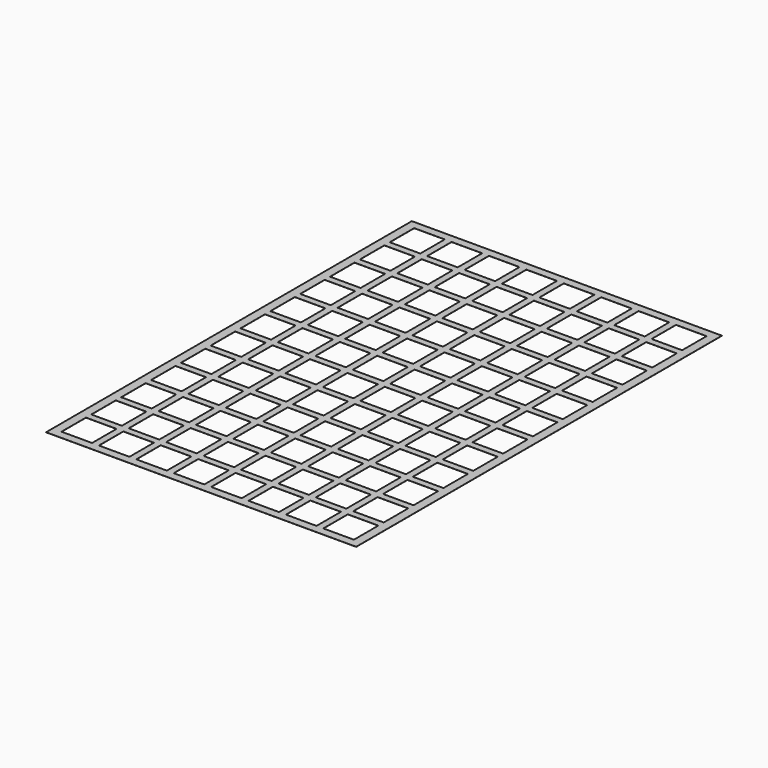
from build123d import *

# Parameters (mm, degrees)
F0_W     = 74.7522
F0_H     = 110.2106
F0_W_2   = 7.366
F0_H_2   = 7.366
F1_DEPTH = 0.0254


with BuildPart() as f1:
    # F0 (on Top) → F1 (new body)
    with BuildSketch(Plane.XY):
        Rectangle(F0_W, F0_H)
        with Locations((-31.5595, -49.4411)):
            Rectangle(F0_W_2, F0_H_2, mode=Mode.SUBTRACT)
        with Locations((-22.5425, -49.4411)):
            Rectangle(F0_W_2, F0_H_2, mode=Mode.SUBTRACT)
        with Locations((-31.5595, -40.4495)):
            Rectangle(F0_W_2, F0_H_2, mode=Mode.SUBTRACT)
        with Locations((-31.5595, -31.4579)):
            Rectangle(F0_W_2, F0_H_2, mode=Mode.SUBTRACT)
        with Locations((-22.5425, -40.4495)):
            Rectangle(F0_W_2, F0_H_2, mode=Mode.SUBTRACT)
        with Locations((-22.5425, -31.4579)):
            Rectangle(F0_W_2, F0_H_2, mode=Mode.SUBTRACT)
        with Locations((-13.5255, -49.4411)):
            Rectangle(F0_W_2, F0_H_2, mode=Mode.SUBTRACT)
        with Locations((-4.5085, -49.4411)):
            Rectangle(F0_W_2, F0_H_2, mode=Mode.SUBTRACT)
        with Locations((-13.5255, -40.4495)):
            Rectangle(F0_W_2, F0_H_2, mode=Mode.SUBTRACT)
        with Locations((-13.5255, -31.4579)):
            Rectangle(F0_W_2, F0_H_2, mode=Mode.SUBTRACT)
        with Locations((-4.5085, -40.4495)):
            Rectangle(F0_W_2, F0_H_2, mode=Mode.SUBTRACT)
        with Locations((-4.5085, -31.4579)):
            Rectangle(F0_W_2, F0_H_2, mode=Mode.SUBTRACT)
        with Locations((-31.5595, -22.4663)):
            Rectangle(F0_W_2, F0_H_2, mode=Mode.SUBTRACT)
        with Locations((-22.5425, -22.4663)):
            Rectangle(F0_W_2, F0_H_2, mode=Mode.SUBTRACT)
        with Locations((-31.5595, -13.4747)):
            Rectangle(F0_W_2, F0_H_2, mode=Mode.SUBTRACT)
        with Locations((-31.5595, -4.4831)):
            Rectangle(F0_W_2, F0_H_2, mode=Mode.SUBTRACT)
        with Locations((-22.5425, -13.4747)):
            Rectangle(F0_W_2, F0_H_2, mode=Mode.SUBTRACT)
        with Locations((-22.5425, -4.4831)):
            Rectangle(F0_W_2, F0_H_2, mode=Mode.SUBTRACT)
        with Locations((-13.5255, -22.4663)):
            Rectangle(F0_W_2, F0_H_2, mode=Mode.SUBTRACT)
        with Locations((-4.5085, -22.4663)):
            Rectangle(F0_W_2, F0_H_2, mode=Mode.SUBTRACT)
        with Locations((-13.5255, -13.4747)):
            Rectangle(F0_W_2, F0_H_2, mode=Mode.SUBTRACT)
        with Locations((-13.5255, -4.4831)):
            Rectangle(F0_W_2, F0_H_2, mode=Mode.SUBTRACT)
        with Locations((-4.5085, -13.4747)):
            Rectangle(F0_W_2, F0_H_2, mode=Mode.SUBTRACT)
        with Locations((-4.5085, -4.4831)):
            Rectangle(F0_W_2, F0_H_2, mode=Mode.SUBTRACT)
        with Locations((4.5085, -49.4411)):
            Rectangle(F0_W_2, F0_H_2, mode=Mode.SUBTRACT)
        with Locations((13.5255, -49.4411)):
            Rectangle(F0_W_2, F0_H_2, mode=Mode.SUBTRACT)
        with Locations((4.5085, -40.4495)):
            Rectangle(F0_W_2, F0_H_2, mode=Mode.SUBTRACT)
        with Locations((4.5085, -31.4579)):
            Rectangle(F0_W_2, F0_H_2, mode=Mode.SUBTRACT)
        with Locations((13.5255, -40.4495)):
            Rectangle(F0_W_2, F0_H_2, mode=Mode.SUBTRACT)
        with Locations((13.5255, -31.4579)):
            Rectangle(F0_W_2, F0_H_2, mode=Mode.SUBTRACT)
        with Locations((22.5425, -49.4411)):
            Rectangle(F0_W_2, F0_H_2, mode=Mode.SUBTRACT)
        with Locations((31.5595, -49.4411)):
            Rectangle(F0_W_2, F0_H_2, mode=Mode.SUBTRACT)
        with Locations((22.5425, -40.4495)):
            Rectangle(F0_W_2, F0_H_2, mode=Mode.SUBTRACT)
        with Locations((22.5425, -31.4579)):
            Rectangle(F0_W_2, F0_H_2, mode=Mode.SUBTRACT)
        with Locations((31.5595, -40.4495)):
            Rectangle(F0_W_2, F0_H_2, mode=Mode.SUBTRACT)
        with Locations((31.5595, -31.4579)):
            Rectangle(F0_W_2, F0_H_2, mode=Mode.SUBTRACT)
        with Locations((4.5085, -22.4663)):
            Rectangle(F0_W_2, F0_H_2, mode=Mode.SUBTRACT)
        with Locations((13.5255, -22.4663)):
            Rectangle(F0_W_2, F0_H_2, mode=Mode.SUBTRACT)
        with Locations((4.5085, -13.4747)):
            Rectangle(F0_W_2, F0_H_2, mode=Mode.SUBTRACT)
        with Locations((4.5085, -4.4831)):
            Rectangle(F0_W_2, F0_H_2, mode=Mode.SUBTRACT)
        with Locations((13.5255, -13.4747)):
            Rectangle(F0_W_2, F0_H_2, mode=Mode.SUBTRACT)
        with Locations((13.5255, -4.4831)):
            Rectangle(F0_W_2, F0_H_2, mode=Mode.SUBTRACT)
        with Locations((22.5425, -22.4663)):
            Rectangle(F0_W_2, F0_H_2, mode=Mode.SUBTRACT)
        with Locations((31.5595, -22.4663)):
            Rectangle(F0_W_2, F0_H_2, mode=Mode.SUBTRACT)
        with Locations((22.5425, -13.4747)):
            Rectangle(F0_W_2, F0_H_2, mode=Mode.SUBTRACT)
        with Locations((22.5425, -4.4831)):
            Rectangle(F0_W_2, F0_H_2, mode=Mode.SUBTRACT)
        with Locations((31.5595, -13.4747)):
            Rectangle(F0_W_2, F0_H_2, mode=Mode.SUBTRACT)
        with Locations((31.5595, -4.4831)):
            Rectangle(F0_W_2, F0_H_2, mode=Mode.SUBTRACT)
        with Locations((-31.5595, 4.5085)):
            Rectangle(F0_W_2, F0_H_2, mode=Mode.SUBTRACT)
        with Locations((-31.5595, 13.5001)):
            Rectangle(F0_W_2, F0_H_2, mode=Mode.SUBTRACT)
        with Locations((-22.5425, 4.5085)):
            Rectangle(F0_W_2, F0_H_2, mode=Mode.SUBTRACT)
        with Locations((-22.5425, 13.5001)):
            Rectangle(F0_W_2, F0_H_2, mode=Mode.SUBTRACT)
        with Locations((-31.5595, 22.4917)):
            Rectangle(F0_W_2, F0_H_2, mode=Mode.SUBTRACT)
        with Locations((-22.5425, 22.4917)):
            Rectangle(F0_W_2, F0_H_2, mode=Mode.SUBTRACT)
        with Locations((-13.5255, 4.5085)):
            Rectangle(F0_W_2, F0_H_2, mode=Mode.SUBTRACT)
        with Locations((-13.5255, 13.5001)):
            Rectangle(F0_W_2, F0_H_2, mode=Mode.SUBTRACT)
        with Locations((-4.5085, 4.5085)):
            Rectangle(F0_W_2, F0_H_2, mode=Mode.SUBTRACT)
        with Locations((-4.5085, 13.5001)):
            Rectangle(F0_W_2, F0_H_2, mode=Mode.SUBTRACT)
        with Locations((-13.5255, 22.4917)):
            Rectangle(F0_W_2, F0_H_2, mode=Mode.SUBTRACT)
        with Locations((-4.5085, 22.4917)):
            Rectangle(F0_W_2, F0_H_2, mode=Mode.SUBTRACT)
        with Locations((-31.5595, 31.4833)):
            Rectangle(F0_W_2, F0_H_2, mode=Mode.SUBTRACT)
        with Locations((-31.5595, 40.4749)):
            Rectangle(F0_W_2, F0_H_2, mode=Mode.SUBTRACT)
        with Locations((-22.5425, 31.4833)):
            Rectangle(F0_W_2, F0_H_2, mode=Mode.SUBTRACT)
        with Locations((-22.5425, 40.4749)):
            Rectangle(F0_W_2, F0_H_2, mode=Mode.SUBTRACT)
        with Locations((-31.5595, 49.4665)):
            Rectangle(F0_W_2, F0_H_2, mode=Mode.SUBTRACT)
        with Locations((-22.5425, 49.4665)):
            Rectangle(F0_W_2, F0_H_2, mode=Mode.SUBTRACT)
        with Locations((-13.5255, 31.4833)):
            Rectangle(F0_W_2, F0_H_2, mode=Mode.SUBTRACT)
        with Locations((-13.5255, 40.4749)):
            Rectangle(F0_W_2, F0_H_2, mode=Mode.SUBTRACT)
        with Locations((-4.5085, 31.4833)):
            Rectangle(F0_W_2, F0_H_2, mode=Mode.SUBTRACT)
        with Locations((-4.5085, 40.4749)):
            Rectangle(F0_W_2, F0_H_2, mode=Mode.SUBTRACT)
        with Locations((-13.5255, 49.4665)):
            Rectangle(F0_W_2, F0_H_2, mode=Mode.SUBTRACT)
        with Locations((-4.5085, 49.4665)):
            Rectangle(F0_W_2, F0_H_2, mode=Mode.SUBTRACT)
        with Locations((4.5085, 4.5085)):
            Rectangle(F0_W_2, F0_H_2, mode=Mode.SUBTRACT)
        with Locations((4.5085, 13.5001)):
            Rectangle(F0_W_2, F0_H_2, mode=Mode.SUBTRACT)
        with Locations((13.5255, 4.5085)):
            Rectangle(F0_W_2, F0_H_2, mode=Mode.SUBTRACT)
        with Locations((13.5255, 13.5001)):
            Rectangle(F0_W_2, F0_H_2, mode=Mode.SUBTRACT)
        with Locations((4.5085, 22.4917)):
            Rectangle(F0_W_2, F0_H_2, mode=Mode.SUBTRACT)
        with Locations((13.5255, 22.4917)):
            Rectangle(F0_W_2, F0_H_2, mode=Mode.SUBTRACT)
        with Locations((22.5425, 4.5085)):
            Rectangle(F0_W_2, F0_H_2, mode=Mode.SUBTRACT)
        with Locations((22.5425, 13.5001)):
            Rectangle(F0_W_2, F0_H_2, mode=Mode.SUBTRACT)
        with Locations((31.5595, 4.5085)):
            Rectangle(F0_W_2, F0_H_2, mode=Mode.SUBTRACT)
        with Locations((31.5595, 13.5001)):
            Rectangle(F0_W_2, F0_H_2, mode=Mode.SUBTRACT)
        with Locations((22.5425, 22.4917)):
            Rectangle(F0_W_2, F0_H_2, mode=Mode.SUBTRACT)
        with Locations((31.5595, 22.4917)):
            Rectangle(F0_W_2, F0_H_2, mode=Mode.SUBTRACT)
        with Locations((4.5085, 31.4833)):
            Rectangle(F0_W_2, F0_H_2, mode=Mode.SUBTRACT)
        with Locations((4.5085, 40.4749)):
            Rectangle(F0_W_2, F0_H_2, mode=Mode.SUBTRACT)
        with Locations((13.5255, 31.4833)):
            Rectangle(F0_W_2, F0_H_2, mode=Mode.SUBTRACT)
        with Locations((13.5255, 40.4749)):
            Rectangle(F0_W_2, F0_H_2, mode=Mode.SUBTRACT)
        with Locations((4.5085, 49.4665)):
            Rectangle(F0_W_2, F0_H_2, mode=Mode.SUBTRACT)
        with Locations((13.5255, 49.4665)):
            Rectangle(F0_W_2, F0_H_2, mode=Mode.SUBTRACT)
        with Locations((22.5425, 31.4833)):
            Rectangle(F0_W_2, F0_H_2, mode=Mode.SUBTRACT)
        with Locations((22.5425, 40.4749)):
            Rectangle(F0_W_2, F0_H_2, mode=Mode.SUBTRACT)
        with Locations((31.5595, 31.4833)):
            Rectangle(F0_W_2, F0_H_2, mode=Mode.SUBTRACT)
        with Locations((31.5595, 40.4749)):
            Rectangle(F0_W_2, F0_H_2, mode=Mode.SUBTRACT)
        with Locations((22.5425, 49.4665)):
            Rectangle(F0_W_2, F0_H_2, mode=Mode.SUBTRACT)
        with Locations((31.5595, 49.4665)):
            Rectangle(F0_W_2, F0_H_2, mode=Mode.SUBTRACT)
    extrude(amount=F1_DEPTH)


solid = f1.part
